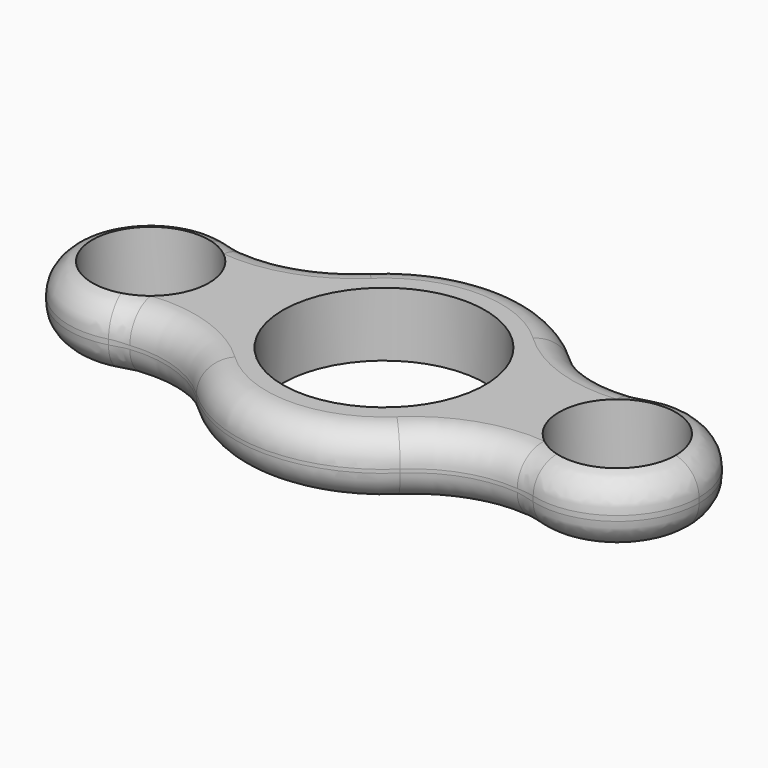
from build123d import *

# Parameters (mm, degrees)
F0_R     = 6.35
F1_DEPTH = 6.985
F2_R     = 3.302


with BuildPart() as f1:
    # F0 (on Top) → F1 (new body)
    with BuildSketch(Plane.XY):
        with BuildLine():
            Line((16.0909, 0), (11.0109, 0))
            ThreePointArc((11.0109, 0), (0, -11.0109), (-11.0109, 0))
            Line((-11.0109, 0), (-16.0909, 0))
            ThreePointArc((-16.0909, 0), (-14.787697, -6.343586), (-11.08918, -11.659638))
            ThreePointArc((-11.08918, -11.659638), (0, -16.0909), (11.08918, -11.659638))
            ThreePointArc((11.08918, -11.659638), (14.787697, -6.343586), (16.0909, 0))
        make_face()
        with BuildLine():
            ThreePointArc((-11.0109, 0), (0, 11.0109), (11.0109, 0))
            Line((11.0109, 0), (16.0909, 0))
            ThreePointArc((16.0909, 0), (14.787697, 6.343586), (11.08918, 11.659638))
            ThreePointArc((11.08918, 11.659638), (0, 16.0909), (-11.08918, 11.659638))
            ThreePointArc((-11.08918, 11.659638), (-14.787697, 6.343586), (-16.0909, 0))
            Line((-16.0909, 0), (-11.0109, 0))
        make_face()
        with BuildLine():
            ThreePointArc((11.08918, 11.659638), (14.787697, 6.343586), (16.0909, 0))
            Line((16.0909, 0), (16.51, 0))
            ThreePointArc((16.51, 0), (18.350904, 5.416858), (23.111203, 8.590315))
            ThreePointArc((23.111203, 8.590315), (16.69985, 8.556906), (11.08918, 11.659638))
        make_face()
        with BuildLine():
            Line((16.51, 0), (16.0909, 0))
            ThreePointArc((16.0909, 0), (14.787697, -6.343586), (11.08918, -11.659638))
            ThreePointArc((11.08918, -11.659638), (16.69985, -8.556906), (23.111203, -8.590315))
            ThreePointArc((23.111203, -8.590315), (18.350904, -5.416858), (16.51, 0))
        make_face()
        with BuildLine():
            ThreePointArc((-11.08918, -11.659638), (-14.787697, -6.343586), (-16.0909, 0))
            Line((-16.0909, 0), (-16.51, 0))
            ThreePointArc((-16.51, 0), (-18.350904, -5.416858), (-23.111203, -8.590315))
            ThreePointArc((-23.111203, -8.590315), (-16.69985, -8.556906), (-11.08918, -11.659638))
        make_face()
        with BuildLine():
            Line((-16.51, 0), (-16.0909, 0))
            ThreePointArc((-16.0909, 0), (-14.787697, 6.343586), (-11.08918, 11.659638))
            ThreePointArc((-11.08918, 11.659638), (-16.69985, 8.556906), (-23.111203, 8.590315))
            ThreePointArc((-23.111203, 8.590315), (-18.350904, 5.416858), (-16.51, 0))
        make_face()
        with BuildLine():
            ThreePointArc((31.75, 0), (25.4, 6.35), (19.05, 0))
            ThreePointArc((19.05, 0), (25.4, -6.35), (31.75, 0))
        make_face()
        with BuildLine():
            ThreePointArc((23.111203, 8.590315), (18.350904, 5.416858), (16.51, 0))
            ThreePointArc((16.51, 0), (18.350904, -5.416858), (23.111203, -8.590315))
            ThreePointArc((23.111203, -8.590315), (30.816858, -7.049096), (34.29, 0))
            ThreePointArc((34.29, 0), (30.816858, 7.049096), (23.111203, 8.590315))
        make_face()
        with BuildLine():
            ThreePointArc((31.75, 0), (25.4, -6.35), (19.05, 0))
            ThreePointArc((19.05, 0), (25.4, 6.35), (31.75, 0))
        make_face(mode=Mode.SUBTRACT)
        with Locations((-25.4, 0)):
            Circle(F0_R)
        with BuildLine():
            ThreePointArc((-23.111203, -8.590315), (-18.350904, -5.416858), (-16.51, 0))
            ThreePointArc((-16.51, 0), (-18.350904, 5.416858), (-23.111203, 8.590315))
            ThreePointArc((-23.111203, 8.590315), (-34.29, 0), (-23.111203, -8.590315))
        make_face()
        with Locations((-25.4, 0)):
            Circle(F0_R, mode=Mode.SUBTRACT)
    extrude(amount=F1_DEPTH)

    # F2
    f2_edges = [f1.edges().sort_by_distance(p)[0] for p in [
        (-16.69985, 8.556906, 6.985),
        (-16.69985, 8.556906, 0),
    ]]
    fillet(f2_edges, radius=F2_R)


solid = f1.part
